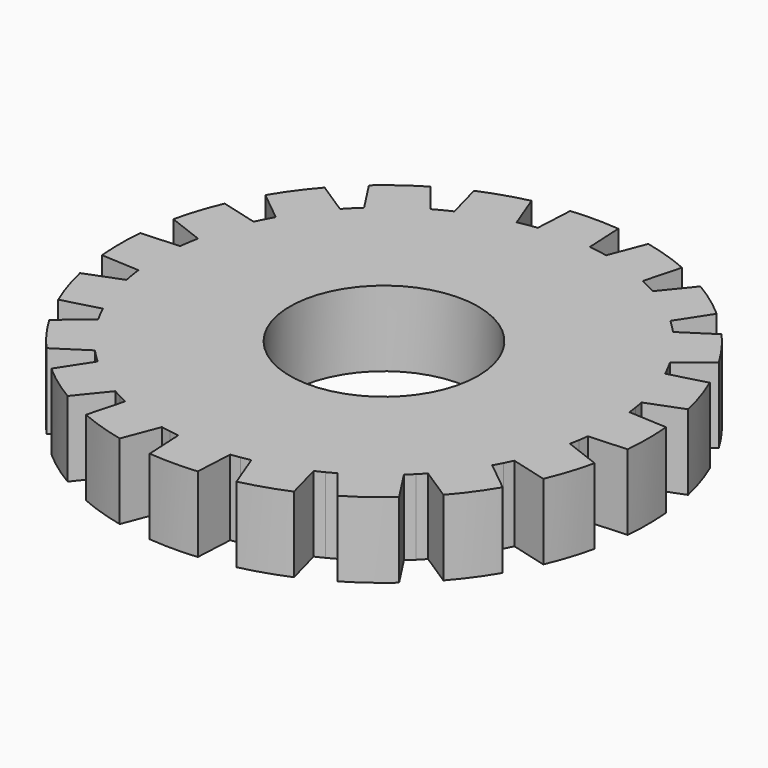
from build123d import *

# Parameters (mm, degrees)
F0_R     = 6.23749
F1_DEPTH = 2.5


with BuildPart() as f1:
    # F0 (on Top) → F1 (new body, symmetric)
    with BuildSketch(Plane.XY):
        with BuildLine():
            Line((-1.591629, 17.42747), (-1.724057, 14.900591))
            ThreePointArc((-1.724057, 14.900591), (-2.035734, 14.861218), (-2.346517, 14.815325))
            ThreePointArc((-2.346517, 14.815325), (-2.656271, 14.762934), (-2.96486, 14.704068))
            Line((-2.96486, 14.704068), (-3.871655, 17.06635))
            ThreePointArc((-3.871655, 17.06635), (-5.407797, 16.643489), (-6.899114, 16.082669))
            Line((-6.899114, 16.082669), (-6.244212, 13.638542))
            ThreePointArc((-6.244212, 13.638542), (-6.528466, 13.504782), (-6.809857, 13.365098))
            ThreePointArc((-6.809857, 13.365098), (-7.088261, 13.219552), (-7.363556, 13.068207))
            Line((-7.363556, 13.068207), (-8.955955, 15.034656))
            ThreePointArc((-8.955955, 15.034656), (-10.286242, 14.157797), (-11.531265, 13.163583))
            Line((-11.531265, 13.163583), (-10.15314, 11.041456))
            ThreePointArc((-10.15314, 11.041456), (-10.382148, 10.826403), (-10.606602, 10.606602))
            ThreePointArc((-10.606602, 10.606602), (-10.826403, 10.382148), (-11.041456, 10.15314))
            Line((-11.041456, 10.15314), (-13.163583, 11.531265))
            ThreePointArc((-13.163583, 11.531265), (-14.157797, 10.286242), (-15.034656, 8.955955))
            Line((-15.034656, 8.955955), (-13.068207, 7.363556))
            ThreePointArc((-13.068207, 7.363556), (-13.219552, 7.088261), (-13.365098, 6.809857))
            ThreePointArc((-13.365098, 6.809857), (-13.504782, 6.528466), (-13.638542, 6.244212))
            Line((-13.638542, 6.244212), (-16.082669, 6.899114))
            ThreePointArc((-16.082669, 6.899114), (-16.643489, 5.407797), (-17.06635, 3.871655))
            Line((-17.06635, 3.871655), (-14.704068, 2.96486))
            ThreePointArc((-14.704068, 2.96486), (-14.762934, 2.656271), (-14.815325, 2.346517))
            ThreePointArc((-14.815325, 2.346517), (-14.861218, 2.035734), (-14.900591, 1.724057))
            Line((-14.900591, 1.724057), (-17.42747, 1.591629))
            ThreePointArc((-17.42747, 1.591629), (-17.5, 0), (-17.42747, -1.591629))
            Line((-17.42747, -1.591629), (-14.900591, -1.724057))
            ThreePointArc((-14.900591, -1.724057), (-14.861218, -2.035734), (-14.815325, -2.346517))
            ThreePointArc((-14.815325, -2.346517), (-14.762934, -2.656271), (-14.704068, -2.96486))
            Line((-14.704068, -2.96486), (-17.06635, -3.871655))
            ThreePointArc((-17.06635, -3.871655), (-16.643489, -5.407797), (-16.082669, -6.899114))
            Line((-16.082669, -6.899114), (-13.638542, -6.244212))
            ThreePointArc((-13.638542, -6.244212), (-13.504782, -6.528466), (-13.365098, -6.809857))
            ThreePointArc((-13.365098, -6.809857), (-13.219552, -7.088261), (-13.068207, -7.363556))
            Line((-13.068207, -7.363556), (-15.034656, -8.955955))
            ThreePointArc((-15.034656, -8.955955), (-14.157797, -10.286242), (-13.163583, -11.531265))
            Line((-13.163583, -11.531265), (-11.041456, -10.15314))
            ThreePointArc((-11.041456, -10.15314), (-10.826403, -10.382148), (-10.606602, -10.606602))
            ThreePointArc((-10.606602, -10.606602), (-10.382148, -10.826403), (-10.15314, -11.041456))
            Line((-10.15314, -11.041456), (-11.531265, -13.163583))
            ThreePointArc((-11.531265, -13.163583), (-10.286242, -14.157797), (-8.955955, -15.034656))
            Line((-8.955955, -15.034656), (-7.363556, -13.068207))
            ThreePointArc((-7.363556, -13.068207), (-7.088261, -13.219552), (-6.809857, -13.365098))
            ThreePointArc((-6.809857, -13.365098), (-6.528466, -13.504782), (-6.244212, -13.638542))
            Line((-6.244212, -13.638542), (-6.899114, -16.082669))
            ThreePointArc((-6.899114, -16.082669), (-5.407797, -16.643489), (-3.871655, -17.06635))
            Line((-3.871655, -17.06635), (-2.96486, -14.704068))
            ThreePointArc((-2.96486, -14.704068), (-2.656271, -14.762934), (-2.346517, -14.815325))
            ThreePointArc((-2.346517, -14.815325), (-2.035734, -14.861218), (-1.724057, -14.900591))
            Line((-1.724057, -14.900591), (-1.591629, -17.42747))
            ThreePointArc((-1.591629, -17.42747), (0, -17.5), (1.591629, -17.42747))
            Line((1.591629, -17.42747), (1.724057, -14.900591))
            ThreePointArc((1.724057, -14.900591), (2.035734, -14.861218), (2.346517, -14.815325))
            ThreePointArc((2.346517, -14.815325), (2.656271, -14.762934), (2.96486, -14.704068))
            Line((2.96486, -14.704068), (3.871655, -17.06635))
            ThreePointArc((3.871655, -17.06635), (5.407797, -16.643489), (6.899114, -16.082669))
            Line((6.899114, -16.082669), (6.244212, -13.638542))
            ThreePointArc((6.244212, -13.638542), (6.528466, -13.504782), (6.809857, -13.365098))
            ThreePointArc((6.809857, -13.365098), (7.088261, -13.219552), (7.363556, -13.068207))
            Line((7.363556, -13.068207), (8.955955, -15.034656))
            ThreePointArc((8.955955, -15.034656), (10.286242, -14.157797), (11.531265, -13.163583))
            Line((11.531265, -13.163583), (10.15314, -11.041456))
            ThreePointArc((10.15314, -11.041456), (10.382148, -10.826403), (10.606602, -10.606602))
            ThreePointArc((10.606602, -10.606602), (10.826403, -10.382148), (11.041456, -10.15314))
            Line((11.041456, -10.15314), (13.163583, -11.531265))
            ThreePointArc((13.163583, -11.531265), (14.157797, -10.286242), (15.034656, -8.955955))
            Line((15.034656, -8.955955), (13.068207, -7.363556))
            ThreePointArc((13.068207, -7.363556), (13.219552, -7.088261), (13.365098, -6.809857))
            ThreePointArc((13.365098, -6.809857), (13.504782, -6.528466), (13.638542, -6.244212))
            Line((13.638542, -6.244212), (16.082669, -6.899114))
            ThreePointArc((16.082669, -6.899114), (16.643489, -5.407797), (17.06635, -3.871655))
            Line((17.06635, -3.871655), (14.704068, -2.96486))
            ThreePointArc((14.704068, -2.96486), (14.762934, -2.656271), (14.815325, -2.346517))
            ThreePointArc((14.815325, -2.346517), (14.861218, -2.035734), (14.900591, -1.724057))
            Line((14.900591, -1.724057), (17.42747, -1.591629))
            ThreePointArc((17.42747, -1.591629), (17.5, 0), (17.42747, 1.591629))
            Line((17.42747, 1.591629), (14.900591, 1.724057))
            ThreePointArc((14.900591, 1.724057), (14.861218, 2.035734), (14.815325, 2.346517))
            ThreePointArc((14.815325, 2.346517), (14.762934, 2.656271), (14.704068, 2.96486))
            Line((14.704068, 2.96486), (17.06635, 3.871655))
            ThreePointArc((17.06635, 3.871655), (16.643489, 5.407797), (16.082669, 6.899114))
            Line((16.082669, 6.899114), (13.638542, 6.244212))
            ThreePointArc((13.638542, 6.244212), (13.504782, 6.528466), (13.365098, 6.809857))
            ThreePointArc((13.365098, 6.809857), (13.219552, 7.088261), (13.068207, 7.363556))
            Line((13.068207, 7.363556), (15.034656, 8.955955))
            ThreePointArc((15.034656, 8.955955), (14.157797, 10.286242), (13.163583, 11.531265))
            Line((13.163583, 11.531265), (11.041456, 10.15314))
            ThreePointArc((11.041456, 10.15314), (10.826403, 10.382148), (10.606602, 10.606602))
            ThreePointArc((10.606602, 10.606602), (10.382148, 10.826403), (10.15314, 11.041456))
            Line((10.15314, 11.041456), (11.531265, 13.163583))
            ThreePointArc((11.531265, 13.163583), (10.286242, 14.157797), (8.955955, 15.034656))
            Line((8.955955, 15.034656), (7.363556, 13.068207))
            ThreePointArc((7.363556, 13.068207), (7.088261, 13.219552), (6.809857, 13.365098))
            ThreePointArc((6.809857, 13.365098), (6.528466, 13.504782), (6.244212, 13.638542))
            Line((6.244212, 13.638542), (6.899114, 16.082669))
            ThreePointArc((6.899114, 16.082669), (5.407797, 16.643489), (3.871655, 17.06635))
            Line((3.871655, 17.06635), (2.96486, 14.704068))
            ThreePointArc((2.96486, 14.704068), (2.656271, 14.762934), (2.346517, 14.815325))
            ThreePointArc((2.346517, 14.815325), (2.035734, 14.861218), (1.724057, 14.900591))
            Line((1.724057, 14.900591), (1.591629, 17.42747))
            ThreePointArc((1.591629, 17.42747), (0, 17.5), (-1.591629, 17.42747))
        make_face()
        Circle(F0_R, mode=Mode.SUBTRACT)
    extrude(amount=F1_DEPTH, both=True)


solid = f1.part
